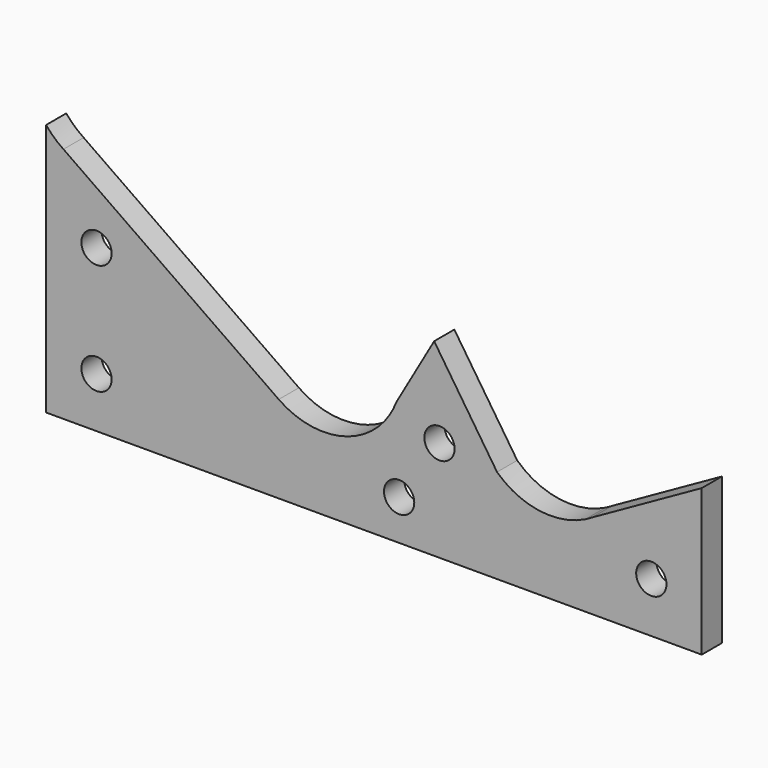
from build123d import *

# Parameters (mm, degrees)
F0_R     = 3
F1_DEPTH = 5


with BuildPart() as f1:
    # F0 (on Front) → F1 (new body)
    with BuildSketch(Plane.XZ):
        with BuildLine():
            Line((0, 50.189292), (0, 0))
            Line((0, 0), (130, 0.007858))
            Line((130, 0.007858), (130, 29.081571))
            Line((130, 29.081571), (108.241631, 16.878763))
            ThreePointArc((108.241631, 16.878763), (107.581922, 16.487004), (106.903636, 16.128371))
            ThreePointArc((106.903636, 16.128371), (97.760054, 14.668749), (89.415819, 18.682392))
            Line((89.415819, 18.682392), (76.946103, 37.473632))
            Line((76.946103, 37.473632), (69.468242, 24.439426))
            ThreePointArc((69.468242, 24.439426), (68.444533, 22.28673), (67.102852, 20.316458))
            ThreePointArc((67.102852, 20.316458), (57.214619, 14.659027), (46.130044, 17.288828))
            Line((46.130044, 17.288828), (3.445965, 47.074116))
            ThreePointArc((3.445965, 47.074116), (1.605618, 48.501877), (0, 50.189292))
        make_face()
        with Locations((10, 10.000604)):
            Circle(F0_R, mode=Mode.SUBTRACT)
        with Locations((70, 8.004231)):
            Circle(F0_R, mode=Mode.SUBTRACT)
        with Locations((120, 10.007253)):
            Circle(F0_R, mode=Mode.SUBTRACT)
        with Locations((78, 20.004715)):
            Circle(F0_R, mode=Mode.SUBTRACT)
        with Locations((10, 32.000605)):
            Circle(F0_R, mode=Mode.SUBTRACT)
    extrude(amount=F1_DEPTH)


solid = f1.part
